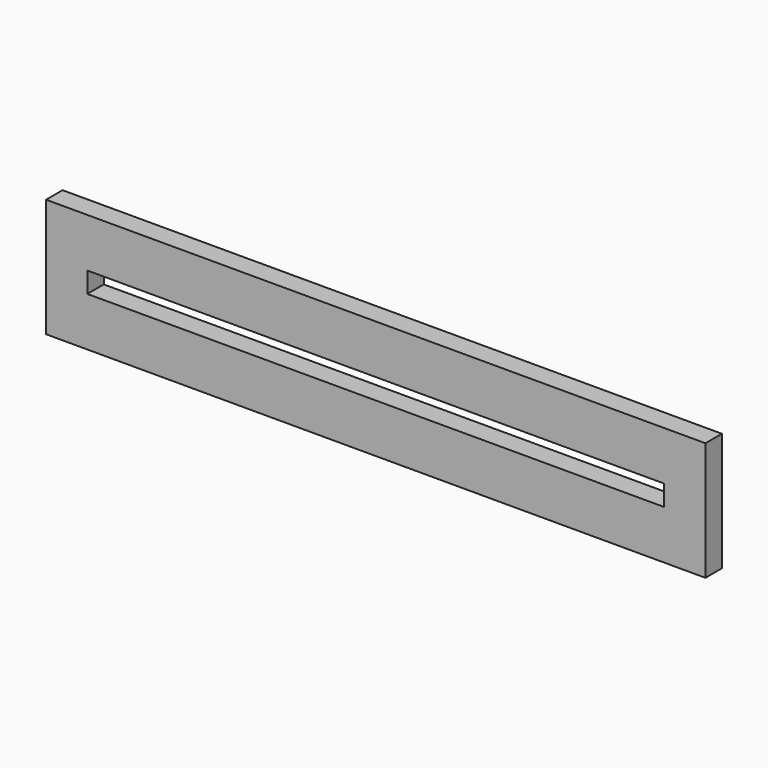
from build123d import *

# Parameters (mm, degrees)
F0_W     = 112
F0_H     = 4
F1_DEPTH = 4


with BuildPart() as f1:
    # F0 (on Front) → F1 (new body)
    with BuildSketch(Plane.XZ):
        Polygon((128, 0), (0, 0), (0, -23), (128, -23), (128, -13.5), (128, -11.5), (128, -9.5), align=None)
        with Locations((64, -11.5)):
            Rectangle(F0_W, F0_H, mode=Mode.SUBTRACT)
    extrude(amount=F1_DEPTH)


solid = f1.part
